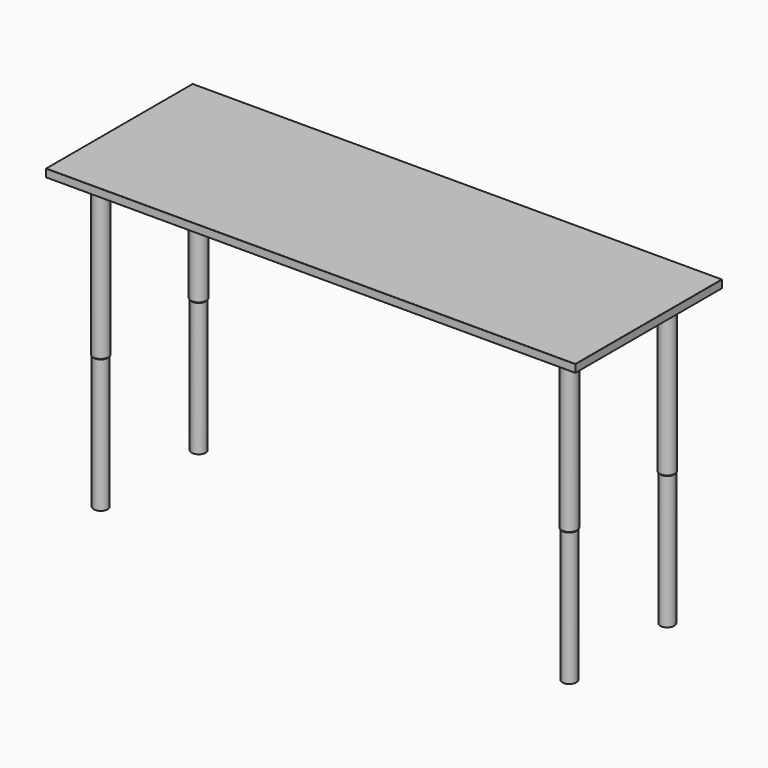
from build123d import *

# Parameters (mm, degrees)
F0_W      = 1879.6
F0_H      = 650.875
F1_DEPTH  = 28.2
F2_R      = 1
F3_R      = 52.1
F4_DEPTH  = 2.62
F5_R      = 27.6
F6_DEPTH  = 558.8
F8_R      = 24.95
F9_DEPTH  = 473.075
F6_FACE_R = 27.6
F9_FACE_R = 24.95


with BuildPart() as f1:
    # F0 (on Top) → F1 (new body)
    with BuildSketch(Plane.XY):
        Rectangle(F0_W, F0_H)
    extrude(amount=F1_DEPTH)

    # F2
    f2_edges = [f1.edges().sort_by_distance(p)[0] for p in [
        (0, -325.4375, 28.2),
        (0, -325.4375, 0),
        (-939.8, 0, 28.2),
        (0, 325.4375, 28.2),
        (939.8, 0, 28.2),
        (939.8, 0, 0),
        (0, 325.4375, 0),
        (-939.8, 0, 0),
        (-939.8, -325.4375, 14.1),
        (-939.8, 325.4375, 14.1),
        (939.8, 325.4375, 14.1),
        (939.8, -325.4375, 14.1),
    ]]
    fillet(f2_edges, radius=F2_R)

    # F3 (on face) → F4 (join)
    with BuildSketch(Plane(origin=(0, 0, 0), x_dir=(1, 0, 0), z_dir=(0, 0, -1))):
        with Locations((-831.7, 217.3375)):
            Circle(F3_R)
    extrude(amount=F4_DEPTH)

    # F5 (on face) → F6 (join)
    with BuildSketch(Plane(origin=(0, 0, -2.62), x_dir=(1, 0, 0), z_dir=(0, 0, -1))):
        with Locations((-831.7, 217.3375)):
            Circle(F5_R)
    extrude(amount=F6_DEPTH)



with BuildPart() as f9:
    # F8 (on offset) → F9 (new body)
    with BuildSketch(Plane(origin=(0, 0, -564.85), x_dir=(1, 0, 0), z_dir=(0, 0, -1))):
        with Locations((-831.7, 217.3375)):
            Circle(F8_R)
    extrude(amount=F9_DEPTH)


with BuildPart() as f1_1:
    add(f1.part)

    add(f9.part)  # F10 merges F9
    # F6_face (on face) → F10 section 0
    with BuildSketch(Plane(origin=(-831.7, -217.3375, -561.42), x_dir=(1, 0, 0), z_dir=(0, 0, -1))):
        Circle(F6_FACE_R)
    # F9_face (on face) → F10 section 1
    with BuildSketch(Plane(origin=(-831.7, -217.3375, -564.85), x_dir=(1, 0, 0), z_dir=(0, 0, 1))):
        Circle(F9_FACE_R)
    loft()

    # F11: F1 across plane


with BuildPart() as f1_2:
    add(f1_1.part)
    add(f1_1.part.mirror(Plane.XZ))

    # F12: F1 across plane


with BuildPart() as f1_3:
    add(f1_2.part)
    add(f1_2.part.mirror(Plane.YZ))


solid = f1_3.part
